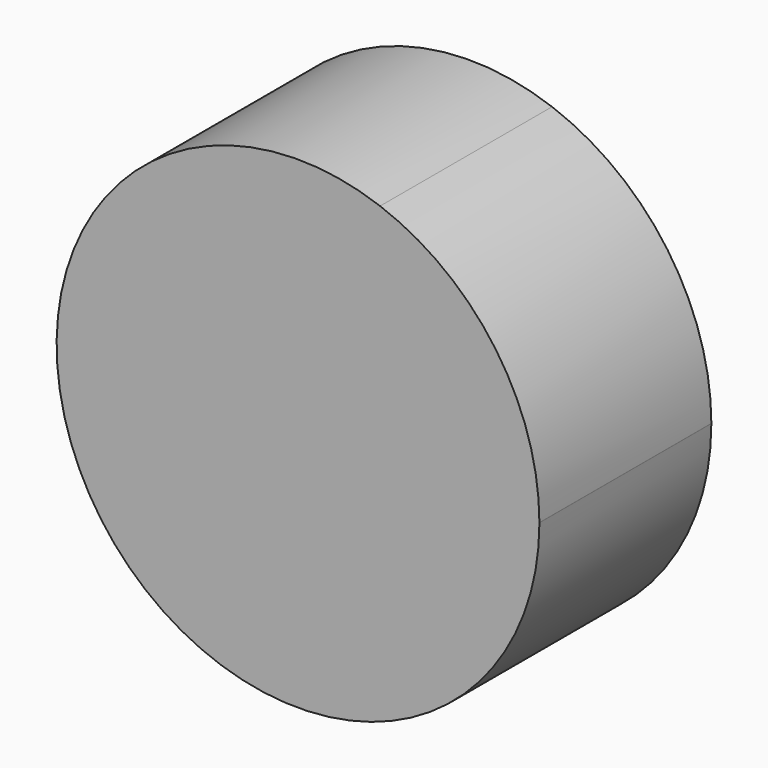
from build123d import *

# Parameters (mm, degrees)
F1_DEPTH = 19.05


with BuildPart() as f1:
    # F0 (on Front) → F1 (new body)
    with BuildSketch(Plane.XZ):
        with BuildLine():
            ThreePointArc((21.396146, 0.011871), (7.72965, 5.42737), (7.276703, 20.120756))
            ThreePointArc((7.276703, 20.120756), (-4.207022, 20.97847), (-14.47208, 15.759255))
            ThreePointArc((-14.47208, 15.759255), (-8.606638, -19.588798), (21.39615, 0))
            ThreePointArc((21.39615, 0), (21.396149, 0.005936), (21.396146, 0.011871))
        make_face()
        with BuildLine():
            ThreePointArc((21.396146, 0.011871), (17.510708, 12.295135), (7.276703, 20.120756))
            ThreePointArc((7.276703, 20.120756), (7.72965, 5.42737), (21.396146, 0.011871))
        make_face()
    extrude(amount=F1_DEPTH)


solid = f1.part
